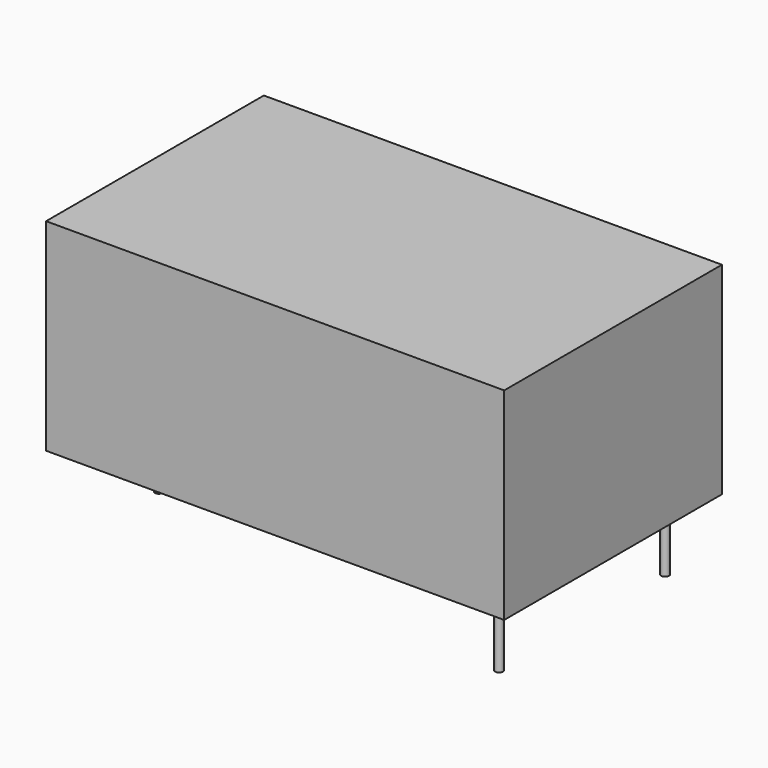
from build123d import *

# Parameters (mm, degrees)
F0_W     = 34
F0_H     = 20.2
F0_R     = 0.3
F1_DEPTH = 15
F2_DEPTH = 5


with BuildPart() as f1:
    # F0 (on Top) → F1 (new body)
    with BuildSketch(Plane.XY):
        Rectangle(F0_W, F0_H)
        with Locations((-14.7, -2.5)):
            Circle(F0_R, mode=Mode.SUBTRACT)
        with Locations((14.7, -7.7)):
            Circle(F0_R, mode=Mode.SUBTRACT)
        with Locations((-14.7, 2.5)):
            Circle(F0_R, mode=Mode.SUBTRACT)
        with Locations((14.7, 7.7)):
            Circle(F0_R, mode=Mode.SUBTRACT)
        with Locations((-14.7, 2.5)):
            Circle(F0_R)
        with Locations((14.7, 7.7)):
            Circle(F0_R)
        with Locations((14.7, -7.7)):
            Circle(F0_R)
        with Locations((-14.7, -2.5)):
            Circle(F0_R)
    extrude(amount=F1_DEPTH)


with BuildPart() as f2:
    # F0 (on Top) → F2 (new body)
    with BuildSketch(Plane.XY):
        with Locations((-14.7, -2.5)):
            Circle(F0_R)
    extrude(amount=-F2_DEPTH)


with BuildPart() as f2b:
    # F0 (on Top) → F2, piece 2 (new body)
    with BuildSketch(Plane.XY):
        with Locations((-14.7, 2.5)):
            Circle(F0_R)
    extrude(amount=-F2_DEPTH)


with BuildPart() as f2c:
    # F0 (on Top) → F2, piece 3 (new body)
    with BuildSketch(Plane.XY):
        with Locations((14.7, -7.7)):
            Circle(F0_R)
    extrude(amount=-F2_DEPTH)


with BuildPart() as f2d:
    # F0 (on Top) → F2, piece 4 (new body)
    with BuildSketch(Plane.XY):
        with Locations((14.7, 7.7)):
            Circle(F0_R)
    extrude(amount=-F2_DEPTH)


solid = Compound([f1.part, f2.part, f2b.part, f2c.part, f2d.part])
